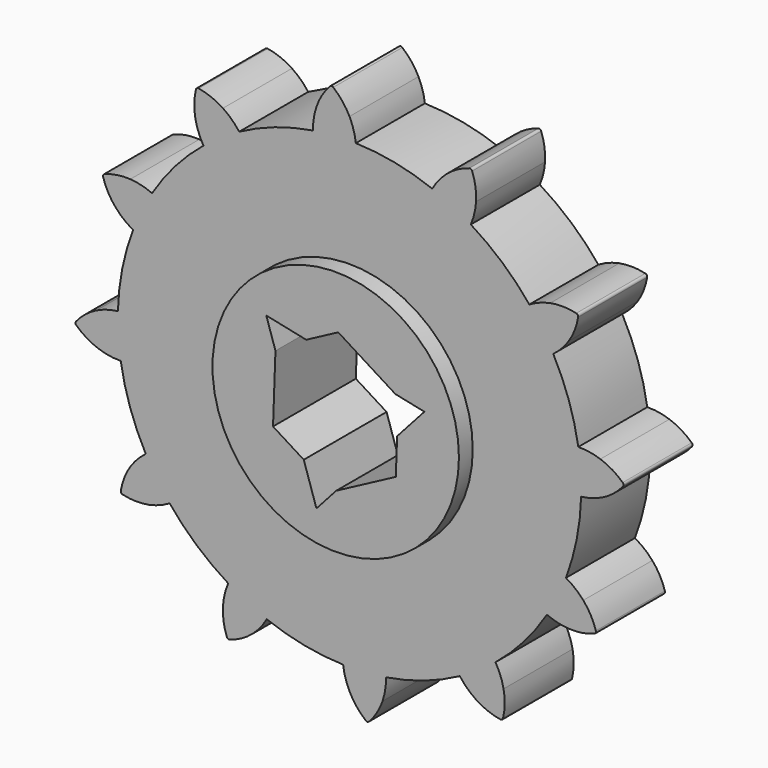
from build123d import *

# Parameters (mm, degrees)
F1_DEPTH = 10
F2_COUNT = 12
F3_R     = 14.287372
F4_DEPTH = 12
F6_DEPTH = 25


with BuildPart() as f1:
    # F0 (on Front) → F1 (new body)
    with BuildSketch(Plane.XZ):
        with BuildLine():
            ThreePointArc((-4.234477, 26.524624), (-17.431958, -20.435589), (26.8605, 0))
            ThreePointArc((26.8605, 0), (19.251731, 18.731186), (0.736092, 26.850412))
            ThreePointArc((0.736092, 26.850412), (-1.756761, 26.80299), (-4.234477, 26.524624))
        make_face()
        with BuildLine():
            ThreePointArc((-4.234477, 26.524624), (-1.756761, 26.80299), (0.736092, 26.850412))
            ThreePointArc((0.736092, 26.850412), (0.47684, 28.126886), (0, 29.339))
            ThreePointArc((0, 29.339), (-0.815533, 30.61676), (-1.881799, 31.694185))
            ThreePointArc((-1.881799, 31.694185), (-2.082262, 31.769175), (-2.271222, 31.66866))
            ThreePointArc((-2.271222, 31.66866), (-3.187733, 30.461278), (-3.829508, 29.088001))
            ThreePointArc((-3.829508, 29.088001), (-4.144055, 27.824016), (-4.234477, 26.524624))
        make_face()
    extrude(amount=F1_DEPTH)

    # F2: F1 ×12 about axis
    f2_axis = Axis((0, 0, 0), (0, -1, 0))


with BuildPart() as f1_1:
    add(f1.part)
    for i in range(1, F2_COUNT):
        add(f1.part.rotate(f2_axis, i * 360 / F2_COUNT))

    # F3 (on Front) → F4 (join)
    with BuildSketch(Plane.XZ):
        Circle(F3_R)
    extrude(amount=F4_DEPTH)

    # F5 (on face) → F6 (cut)
    with BuildSketch(Plane.XZ.offset(12)):
        Polygon((7.265964, 3.852157), (6.923851, 4.066507), (-3.419352, 6.248354), (-6.969048, 4.366431), (-6.983624, 3.962977), (-3.701558, -6.085423), (-0.296916, -8.218588), (0.059773, -8.029484), (7.12091, -0.162932), align=None)
        Polygon((6.923851, 4.066507), (0.296916, 8.218588), (-3.419352, 6.248354), align=None)
        Polygon((6.969048, -4.366431), (7.12091, -0.162932), (0.059773, -8.029484), align=None)
        Polygon((-3.701558, -6.085423), (-6.983624, 3.962977), (-7.265964, -3.852157), align=None)
        Polygon((-6.969048, 4.366431), (-3.419352, 6.248354), (-8.049075, 7.224971), (-6.983624, 3.962977), align=None)
        Polygon((-2.232471, -10.583189), (0.059773, -8.029484), (-0.296916, -8.218588), (-3.701558, -6.085423), align=None)
        Polygon((10.281546, 3.358218), (6.923851, 4.066507), (7.265964, 3.852157), (7.12091, -0.162932), align=None)
    extrude(amount=-F6_DEPTH, mode=Mode.SUBTRACT)


solid = f1_1.part
